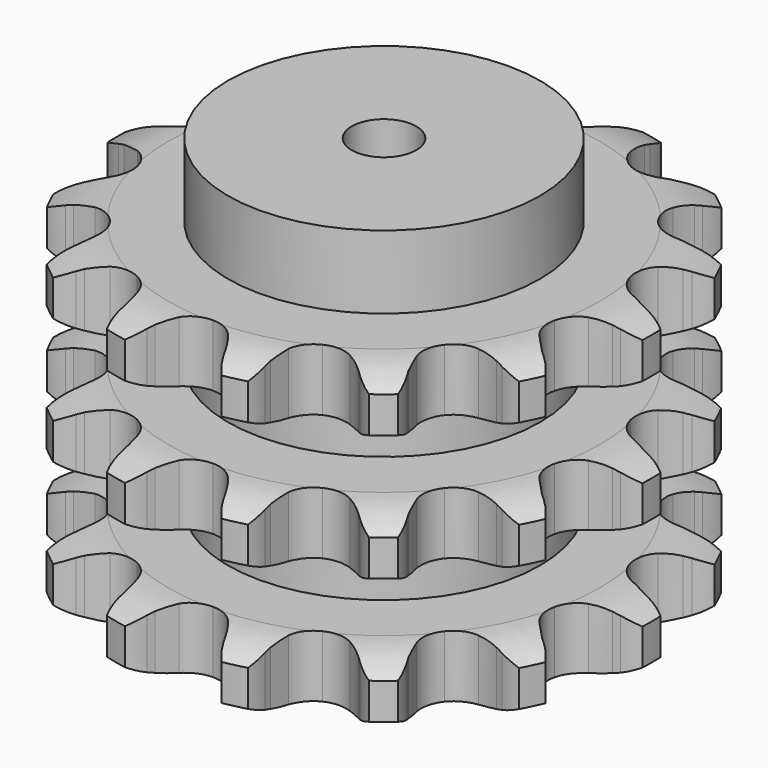
from build123d import *

# Parameters (mm, degrees)
PAD_DEPTH         = 146
SKETCH001_R       = 72.5
PAD001_DEPTH      = 180
SKETCH002_R       = 15
POCKET_DEPTH      = 0.001
POCKET_DEPTH_BACK = 180.001


with BuildPart() as part:
    # Sprocket → Pad (new body)
    with BuildSketch(Plane.XY):
        with BuildLine():
            ThreePointArc((-28.99359, 127.029219), (-22.370441, 122.231262), (-17.693105, 115.522386))
            Line((-17.693105, 115.522386), (-16.348462, 112.675934))
            ThreePointArc((-16.348462, 112.675934), (-14.109343, 108.600584), (-11.390253, 104.828491))
            ThreePointArc((-11.390253, 104.828491), (-6.302318, 100.848251), (0, 99.430439))
            ThreePointArc((0, 99.430439), (6.302318, 100.848251), (11.390253, 104.828491))
            ThreePointArc((11.390253, 104.828491), (14.109343, 108.600584), (16.348462, 112.675934))
            Line((16.348462, 112.675934), (17.693105, 115.522386))
            ThreePointArc((17.693105, 115.522386), (22.370441, 122.231262), (28.99359, 127.029219))
            ThreePointArc((28.99359, 127.029219), (32.879086, 119.832733), (34.182348, 111.758824))
            Line((34.182348, 111.758824), (34.1588, 108.61084))
            ThreePointArc((34.1588, 108.61084), (34.407949, 103.96756), (35.221115, 99.389253))
            ThreePointArc((35.221115, 99.389253), (38.078224, 93.595608), (43.141251, 89.58373))
            ThreePointArc((43.141251, 89.58373), (49.434608, 88.126661), (55.745641, 89.505162))
            Line((55.745641, 89.505162), (63.617711, 94.424177))
            ThreePointArc((63.617711, 94.424177), (64.820487, 95.440039), (66.064222, 96.405322))
            ThreePointArc((66.064222, 96.405322), (73.189228, 100.420392), (81.238235, 101.869525))
            ThreePointArc((81.238235, 101.869525), (81.616507, 93.699861), (79.287567, 85.860056))
            Line((79.287567, 85.860056), (77.900493, 83.034038))
            ThreePointArc((77.900493, 83.034038), (76.110325, 78.742485), (74.856508, 74.264754))
            ThreePointArc((74.856508, 74.264754), (74.916907, 67.805206), (77.737847, 61.993865))
            ThreePointArc((77.737847, 61.993865), (82.775768, 57.950506), (89.059921, 56.454237))
            Line((89.059921, 56.454237), (98.286692, 57.470553))
            ThreePointArc((98.286692, 57.470553), (99.811122, 57.863949), (101.350509, 58.194003))
            ThreePointArc((101.350509, 58.194003), (109.511991, 58.720031), (117.392651, 56.533321))
            ThreePointArc((117.392651, 56.533321), (114.188778, 49.008582), (108.688912, 42.955651))
            Line((108.688912, 42.955651), (106.213038, 41.011326))
            ThreePointArc((106.213038, 41.011326), (102.738117, 37.921495), (99.665653, 34.431209))
            ThreePointArc((99.665653, 34.431209), (96.917377, 28.585152), (96.93751, 22.125354))
            ThreePointArc((96.93751, 22.125354), (99.722172, 16.296542), (104.734792, 12.221858))
            Line((104.734792, 12.221858), (113.488788, 9.134182))
            ThreePointArc((113.488788, 9.134182), (115.03294, 8.827194), (116.563085, 8.456647))
            ThreePointArc((116.563085, 8.456647), (124.144561, 5.389447), (130.296013, 0))
            ThreePointArc((130.296013, 0), (124.144561, -5.389447), (116.563085, -8.456647))
            Line((116.563085, -8.456647), (113.488788, -9.134182))
            ThreePointArc((113.488788, -9.134182), (109.017365, -10.410312), (104.734792, -12.221858))
            ThreePointArc((104.734792, -12.221858), (99.722172, -16.296542), (96.93751, -22.125354))
            ThreePointArc((96.93751, -22.125354), (96.917377, -28.585152), (99.665653, -34.431209))
            Line((99.665653, -34.431209), (106.213038, -41.011326))
            ThreePointArc((106.213038, -41.011326), (107.471074, -41.957895), (108.688912, -42.955651))
            ThreePointArc((108.688912, -42.955651), (114.188778, -49.008582), (117.392651, -56.533321))
            ThreePointArc((117.392651, -56.533321), (109.511991, -58.720031), (101.350509, -58.194003))
            Line((101.350509, -58.194003), (98.286692, -57.470553))
            ThreePointArc((98.286692, -57.470553), (93.704387, -56.680229), (89.059921, -56.454237))
            ThreePointArc((89.059921, -56.454237), (82.775768, -57.950506), (77.737847, -61.993865))
            ThreePointArc((77.737847, -61.993865), (74.916907, -67.805206), (74.856508, -74.264754))
            Line((74.856508, -74.264754), (77.900493, -83.034038))
            ThreePointArc((77.900493, -83.034038), (78.623243, -84.432709), (79.287567, -85.860056))
            ThreePointArc((79.287567, -85.860056), (81.616507, -93.699861), (81.238235, -101.869525))
            ThreePointArc((81.238235, -101.869525), (73.189228, -100.420392), (66.064222, -96.405322))
            Line((66.064222, -96.405322), (63.617711, -94.424177))
            ThreePointArc((63.617711, -94.424177), (59.832106, -91.723931), (55.745641, -89.505162))
            ThreePointArc((55.745641, -89.505162), (49.434608, -88.126661), (43.141251, -89.58373))
            ThreePointArc((43.141251, -89.58373), (38.078224, -93.595608), (35.221115, -99.389253))
            Line((35.221115, -99.389253), (34.1588, -108.61084))
            ThreePointArc((34.1588, -108.61084), (34.203115, -110.184589), (34.182348, -111.758824))
            ThreePointArc((34.182348, -111.758824), (32.879086, -119.832733), (28.99359, -127.029219))
            ThreePointArc((28.99359, -127.029219), (22.370441, -122.231262), (17.693105, -115.522386))
            Line((17.693105, -115.522386), (16.348462, -112.675934))
            ThreePointArc((16.348462, -112.675934), (14.109343, -108.600584), (11.390253, -104.828491))
            ThreePointArc((11.390253, -104.828491), (6.302318, -100.848251), (0, -99.430439))
            ThreePointArc((0, -99.430439), (-6.302318, -100.848251), (-11.390253, -104.828491))
            Line((-11.390253, -104.828491), (-16.348462, -112.675934))
            ThreePointArc((-16.348462, -112.675934), (-16.99136, -114.113059), (-17.693105, -115.522386))
            ThreePointArc((-17.693105, -115.522386), (-22.370441, -122.231262), (-28.99359, -127.029219))
            ThreePointArc((-28.99359, -127.029219), (-32.879086, -119.832733), (-34.182348, -111.758824))
            Line((-34.182348, -111.758824), (-34.1588, -108.61084))
            ThreePointArc((-34.1588, -108.61084), (-34.407949, -103.96756), (-35.221115, -99.389253))
            ThreePointArc((-35.221115, -99.389253), (-38.078224, -93.595608), (-43.141251, -89.58373))
            ThreePointArc((-43.141251, -89.58373), (-49.434608, -88.126661), (-55.745641, -89.505162))
            Line((-55.745641, -89.505162), (-63.617711, -94.424177))
            ThreePointArc((-63.617711, -94.424177), (-64.820487, -95.440039), (-66.064222, -96.405322))
            ThreePointArc((-66.064222, -96.405322), (-73.189228, -100.420392), (-81.238235, -101.869525))
            ThreePointArc((-81.238235, -101.869525), (-81.616507, -93.699861), (-79.287567, -85.860056))
            Line((-79.287567, -85.860056), (-77.900493, -83.034038))
            ThreePointArc((-77.900493, -83.034038), (-76.110325, -78.742485), (-74.856508, -74.264754))
            ThreePointArc((-74.856508, -74.264754), (-74.916907, -67.805206), (-77.737847, -61.993865))
            ThreePointArc((-77.737847, -61.993865), (-82.775768, -57.950506), (-89.059921, -56.454237))
            Line((-89.059921, -56.454237), (-98.286692, -57.470553))
            ThreePointArc((-98.286692, -57.470553), (-99.811122, -57.863949), (-101.350509, -58.194003))
            ThreePointArc((-101.350509, -58.194003), (-109.511991, -58.720031), (-117.392651, -56.533321))
            ThreePointArc((-117.392651, -56.533321), (-114.188778, -49.008582), (-108.688912, -42.955651))
            Line((-108.688912, -42.955651), (-106.213038, -41.011326))
            ThreePointArc((-106.213038, -41.011326), (-102.738117, -37.921495), (-99.665653, -34.431209))
            ThreePointArc((-99.665653, -34.431209), (-96.917377, -28.585152), (-96.93751, -22.125354))
            ThreePointArc((-96.93751, -22.125354), (-99.722172, -16.296542), (-104.734792, -12.221858))
            Line((-104.734792, -12.221858), (-113.488788, -9.134182))
            ThreePointArc((-113.488788, -9.134182), (-115.03294, -8.827194), (-116.563085, -8.456647))
            ThreePointArc((-116.563085, -8.456647), (-124.144561, -5.389447), (-130.296013, 0))
            ThreePointArc((-130.296013, 0), (-124.144561, 5.389447), (-116.563085, 8.456647))
            Line((-116.563085, 8.456647), (-113.488788, 9.134182))
            ThreePointArc((-113.488788, 9.134182), (-109.017365, 10.410312), (-104.734792, 12.221858))
            ThreePointArc((-104.734792, 12.221858), (-99.722172, 16.296542), (-96.93751, 22.125354))
            ThreePointArc((-96.93751, 22.125354), (-96.917377, 28.585152), (-99.665653, 34.431209))
            Line((-99.665653, 34.431209), (-106.213038, 41.011326))
            ThreePointArc((-106.213038, 41.011326), (-107.471074, 41.957895), (-108.688912, 42.955651))
            ThreePointArc((-108.688912, 42.955651), (-114.188778, 49.008582), (-117.392651, 56.533321))
            ThreePointArc((-117.392651, 56.533321), (-109.511991, 58.720031), (-101.350509, 58.194003))
            Line((-101.350509, 58.194003), (-98.286692, 57.470553))
            ThreePointArc((-98.286692, 57.470553), (-93.704387, 56.680229), (-89.059921, 56.454237))
            ThreePointArc((-89.059921, 56.454237), (-82.775768, 57.950506), (-77.737847, 61.993865))
            ThreePointArc((-77.737847, 61.993865), (-74.916907, 67.805206), (-74.856508, 74.264754))
            Line((-74.856508, 74.264754), (-77.900493, 83.034038))
            ThreePointArc((-77.900493, 83.034038), (-78.623243, 84.432709), (-79.287567, 85.860056))
            ThreePointArc((-79.287567, 85.860056), (-81.616507, 93.699861), (-81.238235, 101.869525))
            ThreePointArc((-81.238235, 101.869525), (-73.189228, 100.420392), (-66.064222, 96.405322))
            Line((-66.064222, 96.405322), (-63.617711, 94.424177))
            ThreePointArc((-63.617711, 94.424177), (-59.832106, 91.723931), (-55.745641, 89.505162))
            ThreePointArc((-55.745641, 89.505162), (-49.434608, 88.126661), (-43.141251, 89.58373))
            ThreePointArc((-43.141251, 89.58373), (-38.078224, 93.595608), (-35.221115, 99.389253))
            Line((-35.221115, 99.389253), (-34.1588, 108.61084))
            ThreePointArc((-34.1588, 108.61084), (-34.203115, 110.184589), (-34.182348, 111.758824))
            ThreePointArc((-34.182348, 111.758824), (-32.879086, 119.832733), (-28.99359, 127.029219))
        make_face()
    extrude(amount=PAD_DEPTH)

    # Sketch → Groove (revolve, cut)
    with BuildSketch(Plane.XZ):
        with BuildLine():
            ThreePointArc((100.4, 0), (112.769317, 1.522732), (124.4, 6))
            Line((124.4, 6), (124.4, 22.8))
            ThreePointArc((124.4, 22.8), (112.769317, 27.277268), (100.4, 28.8))
            Line((72.5, 28.8), (100.4, 28.8))
            Line((72.5, 28.8), (72.5, 58.6))
            Line((72.5, 58.6), (100.4, 58.6))
            ThreePointArc((100.4, 58.6), (112.769317, 60.122732), (124.4, 64.6))
            Line((124.4, 81.4), (124.4, 64.6))
            ThreePointArc((124.4, 81.4), (112.769317, 85.877268), (100.4, 87.4))
            Line((72.5, 87.4), (100.4, 87.4))
            Line((72.5, 117.2), (72.5, 87.4))
            Line((100.4, 117.2), (72.5, 117.2))
            ThreePointArc((100.4, 117.2), (112.769317, 118.722732), (124.4, 123.2))
            Line((124.4, 123.2), (124.4, 140))
            ThreePointArc((124.4, 140), (112.769317, 144.477268), (100.4, 146))
            Line((100.4, 146), (134.4, 146))
            Line((134.4, 146), (134.4, 0))
            Line((100.4, 0), (134.4, 0))
        make_face()
    revolve(axis=Axis((0, 0, 0), (0, 0, 1)), mode=Mode.SUBTRACT)

    # Sketch001 → Pad001 (join)
    with BuildSketch(Plane.XY):
        Circle(SKETCH001_R)
    extrude(amount=PAD001_DEPTH)

    # Sketch002 → Pocket (cut, two sides)
    with BuildSketch(Plane.XY) as pocket_sk:
        Circle(SKETCH002_R)
    extrude(amount=-POCKET_DEPTH, mode=Mode.SUBTRACT)
    extrude(pocket_sk.sketch, amount=POCKET_DEPTH_BACK, mode=Mode.SUBTRACT)


solid = part.part
